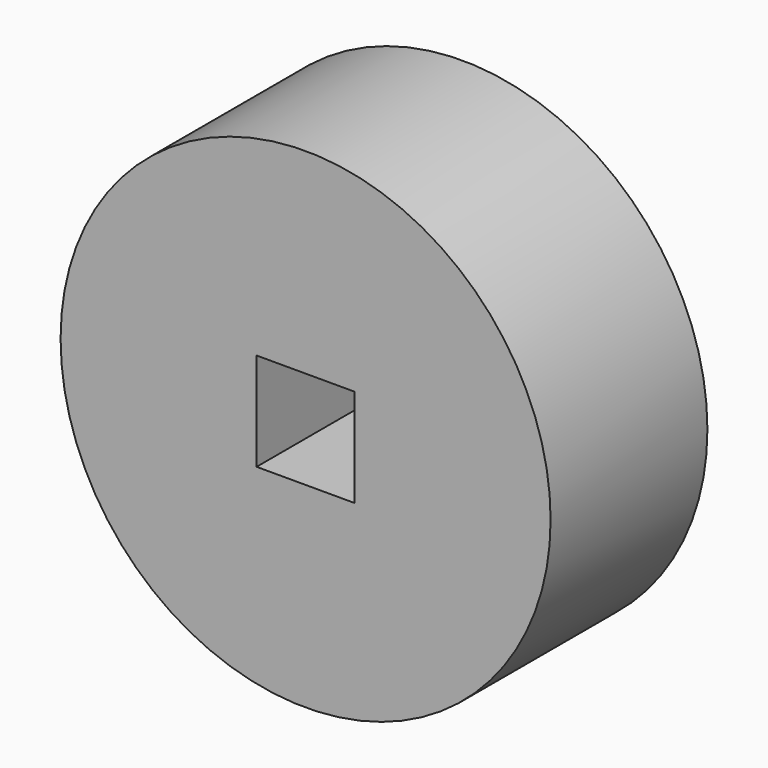
from build123d import *

# Parameters (mm, degrees)
F0_R     = 63.5
F1_DEPTH = 50.8
F2_W     = 25.4
F2_H     = 25.4
F3_DEPTH = 50.801


with BuildPart() as f1:
    # F0 (on Front) → F1 (new body)
    with BuildSketch(Plane.XZ):
        Circle(F0_R)
    extrude(amount=F1_DEPTH)

    # F2 (on face) → F3 (cut, through all)
    with BuildSketch(Plane.XZ.offset(50.8)):
        Rectangle(F2_W, F2_H)
    extrude(amount=-F3_DEPTH, mode=Mode.SUBTRACT)


solid = f1.part
